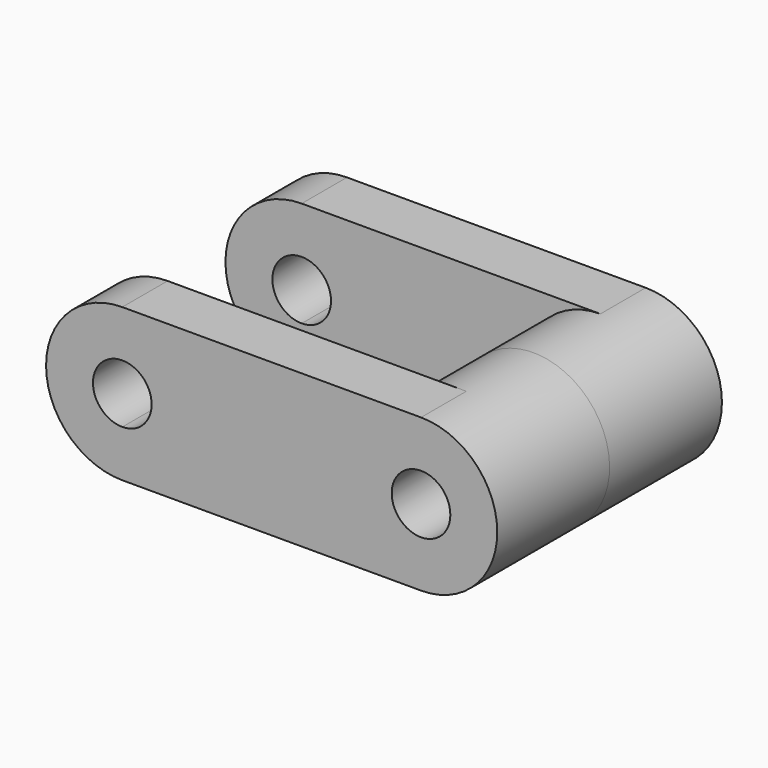
from build123d import *

# Parameters (mm, degrees)
F1_DEPTH = 12.7
F0_R     = 6.573501
F2_DEPTH = 31.496


with BuildPart() as f1:
    # F0 (on Front) → F1 (new body)
    with BuildSketch(Plane.XZ):
        with BuildLine():
            Line((-37.489949, -17.095566), (29.513806, -17.095566))
            ThreePointArc((29.513806, -17.095566), (12.41824, 0), (29.513806, 17.095566))
            Line((29.513806, 17.095566), (-37.489949, 17.095566))
            Line((-37.489949, 17.095566), (-37.489949, 6.573501))
            ThreePointArc((-37.489949, 6.573501), (-32.841781, 4.648167), (-30.916447, 0))
            ThreePointArc((-30.916447, 0), (-32.841781, -4.648167), (-37.489949, -6.573501))
            Line((-37.489949, -6.573501), (-37.489949, -17.095566))
        make_face()
        with BuildLine():
            ThreePointArc((-37.489949, 17.095566), (-54.585515, 0), (-37.489949, -17.095566))
            Line((-37.489949, -17.095566), (-37.489949, -6.573501))
            ThreePointArc((-37.489949, -6.573501), (-44.06345, 0), (-37.489949, 6.573501))
            Line((-37.489949, 6.573501), (-37.489949, 17.095566))
        make_face()
    extrude(amount=-F1_DEPTH)

    # F0 (on Front) → F2 (join)
    with BuildSketch(Plane.XZ):
        with BuildLine():
            ThreePointArc((29.513806, 17.095566), (12.41824, 0), (29.513806, -17.095566))
            ThreePointArc((29.513806, -17.095566), (46.609372, 0), (29.513806, 17.095566))
        make_face()
        with Locations((29.513806, 0)):
            Circle(F0_R, mode=Mode.SUBTRACT)
    extrude(amount=-F2_DEPTH)

    # F3: F1 across face


with BuildPart() as f1_1:
    add(f1.part)
    add(f1.part.mirror(Plane(origin=(29.513806, 31.496, 0), x_dir=(1, 0, 0), z_dir=(0, 1, 0))))


solid = f1_1.part
